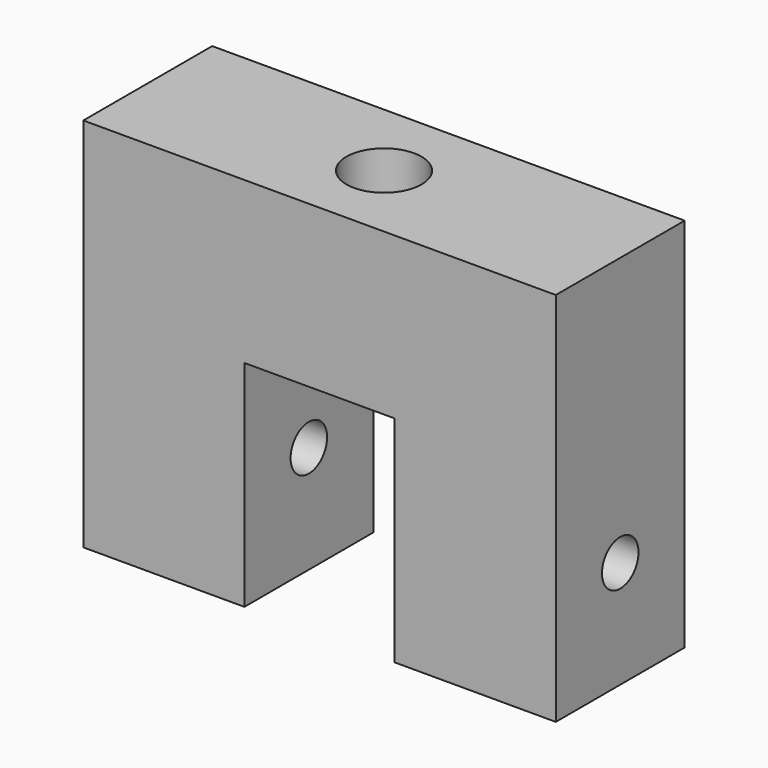
from build123d import *

# Parameters (mm, degrees)
F1_DEPTH = 30
F3_D     = 6.7
F3_DEPTH = 20
F3_TIP   = 2.0128830737
F5_D     = 14
F7_D     = 8.5


with BuildPart() as f1:
    # F0 (on Front) → F1 (new body)
    with BuildSketch(Plane.XZ):
        Polygon((-14, 20), (14, 20), (14, -20), (44, -20), (44, 50), (-44, 50), (-44, -20), (-14, -20), align=None)
    extrude(amount=F1_DEPTH)

    # F3
    with Locations(Plane(origin=(-44, 0, 0), x_dir=(0, -1, 0), z_dir=(-1, 0, 0))):
        with Locations((15, 40), (15, 25)):
            Hole(F3_D / 2, depth=F3_DEPTH)
            with Locations((0, 0, -(F3_DEPTH + F3_TIP / 2))):  # 118° drill point
                Cone(0, F3_D / 2, F3_TIP, mode=Mode.SUBTRACT)

    # F5 (through all)
    with Locations(Plane.XY.offset(50)):
        with Locations((0, -15)):
            Hole(F5_D / 2)

    # F7 (through all)
    with Locations(Plane(origin=(-44, 0, 0), x_dir=(0, -1, 0), z_dir=(-1, 0, 0))):
        with Locations((15, 0)):
            Hole(F7_D / 2)


solid = f1.part
